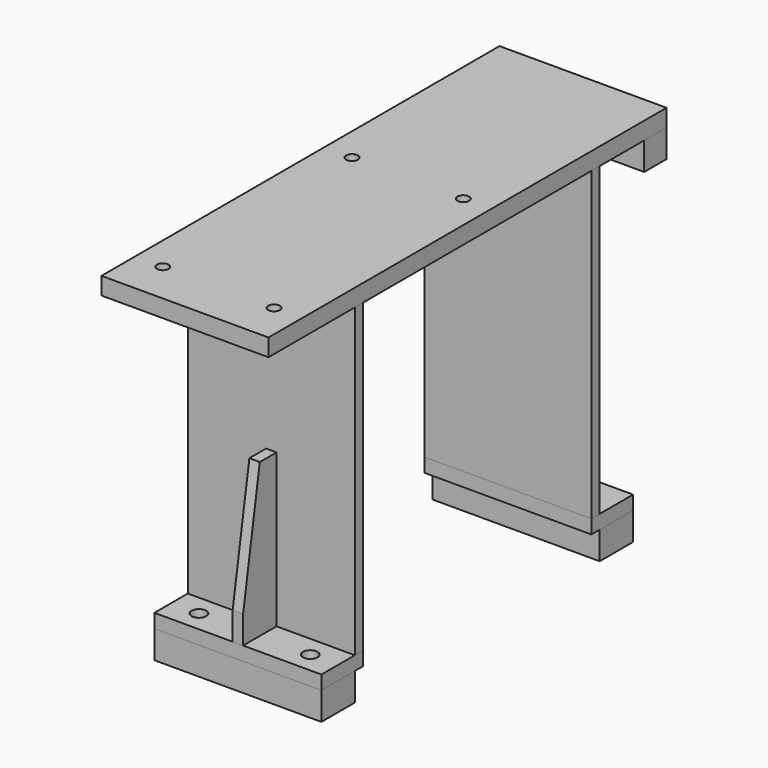
from build123d import *

# Parameters (mm, degrees)
F0_W      = 152.4
F0_H      = 38.1
F0_R      = 6.731
F1_DEPTH  = 25.4
F2_W      = 152.4
F2_H      = 47.625
F2_R      = 6.731
F3_DEPTH  = 12.7
F4_W      = 152.4
F4_H      = 9.525
F5_DEPTH  = 279.4
F7_W      = 152.4
F7_H      = 454.025
F8_DEPTH  = 15.875
F9_W      = 152.4
F9_H      = 25.4
F10_DEPTH = 25.4
F11_W     = 260.35
F11_H     = 50.8
F12_DEPTH = 4.7625
F13_W     = 9.525
F13_H     = 139.7
F14_DEPTH = 38.1
F16_DEPTH = 80.9635
F19_D     = 10.71626
F19_DEPTH = 25.3941384615
F19_TIP   = 3.2194893086


with BuildPart() as f1:
    # F0 (on Top) → F1 (new body)
    with BuildSketch(Plane.XY):
        with Locations((0, -158.75)):
            Rectangle(F0_W, F0_H)
        with Locations((-50.8, -158.75)):
            Circle(F0_R, mode=Mode.SUBTRACT)
        with Locations((50.8, -158.75)):
            Circle(F0_R, mode=Mode.SUBTRACT)
    extrude(amount=F1_DEPTH)


with BuildPart() as f1b:
    # F0 (on Top) → F1, piece 2 (new body)
    with BuildSketch(Plane.XY):
        with Locations((0, 158.75)):
            Rectangle(F0_W, F0_H)
        with Locations((-50.8, 158.75)):
            Circle(F0_R, mode=Mode.SUBTRACT)
        with Locations((50.8, 158.75)):
            Circle(F0_R, mode=Mode.SUBTRACT)
    extrude(amount=F1_DEPTH)


with BuildPart() as f3:
    # F2 (on face) → F3 (new body)
    with BuildSketch(Plane.XY.offset(25.4)):
        with Locations((0, -153.9875)):
            Rectangle(F2_W, F2_H)
        with Locations((-50.8, -158.75)):
            Circle(F2_R, mode=Mode.SUBTRACT)
        with Locations((50.8, -158.75)):
            Circle(F2_R, mode=Mode.SUBTRACT)
    extrude(amount=F3_DEPTH)


with BuildPart() as f5:
    # F4 (on face) → F5 (new body)
    with BuildSketch(Plane.XY.offset(38.1)):
        with Locations((0, -134.9375)):
            Rectangle(F4_W, F4_H)
    extrude(amount=F5_DEPTH)


with BuildPart() as f6_1:
    # F6: instance of F3
    add(f3.part.mirror(Plane.XZ))


with BuildPart() as f6_2:
    # F6: instance of F5
    add(f5.part.mirror(Plane.XZ))


with BuildPart() as f8:
    # F7 (on face) → F8 (new body)
    with BuildSketch(Plane.XY.offset(317.5)):
        with Locations((0, -11.1125)):
            Rectangle(F7_W, F7_H)
    extrude(amount=F8_DEPTH)

    # F19
    with Locations(Plane.XY.offset(333.375)):
        with Locations((50.8, 15.875), (-50.8, 15.875), (50.8, -200.025), (-50.8, -200.025)):
            Hole(F19_D / 2, depth=F19_DEPTH)
            with Locations((0, 0, -(F19_DEPTH + F19_TIP / 2))):  # 118° drill point
                Cone(0, F19_D / 2, F19_TIP, mode=Mode.SUBTRACT)


with BuildPart() as f10:
    # F9 (on face) → F10 (new body)
    with BuildSketch(Plane(origin=(0, 0, 317.5), x_dir=(1, 0, 0), z_dir=(0, 0, -1))):
        with Locations((0, -203.2)):
            Rectangle(F9_W, F9_H)
    extrude(amount=F10_DEPTH)


with BuildPart() as f12:
    # F11 (on Right) → F12 (new body, symmetric)
    with BuildSketch(Plane.YZ):
        with Locations((0, 292.1)):
            Rectangle(F11_W, F11_H)
    extrude(amount=F12_DEPTH, both=True)


with BuildPart() as f14:
    # F13 (on face) → F14 (new body)
    with BuildSketch(Plane.XZ.offset(139.7)):
        with Locations((0, 107.95)):
            Rectangle(F13_W, F13_H)
    extrude(amount=F14_DEPTH)

    # F15 (on face) → F16 (cut, through all)
    with BuildSketch(Plane(origin=(-4.7625, 0, 0), x_dir=(0, -1, 0), z_dir=(-1, 0, 0))):
        Polygon((158.75, 177.8), (177.8, 63.5), (177.8, 177.8), align=None)
    extrude(amount=-F16_DEPTH, mode=Mode.SUBTRACT)


with BuildPart() as f17_1:
    # F17: instance of F14
    add(f14.part.mirror(Plane.XZ))


solid = Compound([f1.part, f1b.part, f3.part, f5.part, f6_1.part, f6_2.part, f8.part, f10.part, f12.part, f14.part, f17_1.part])
